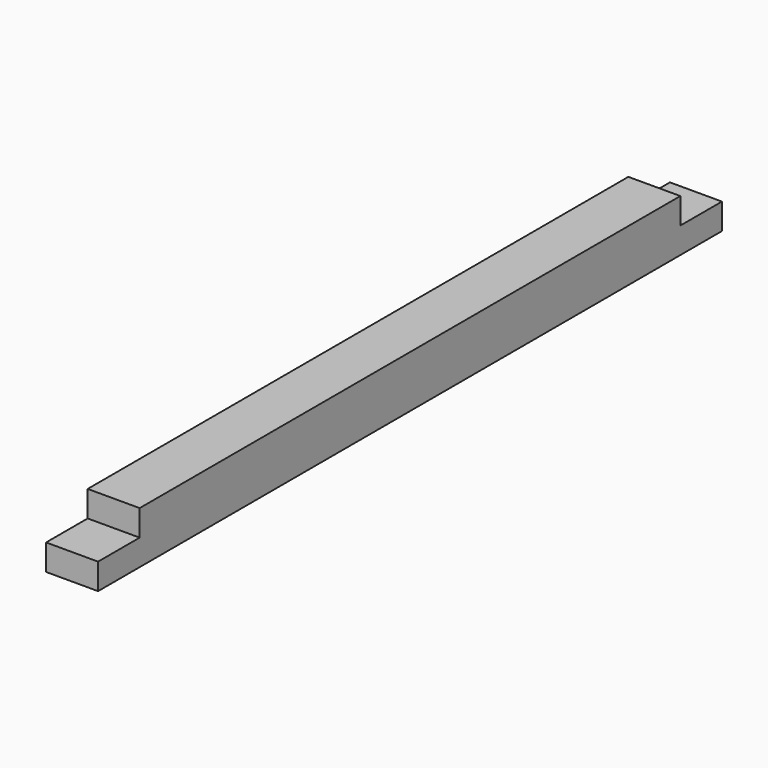
from build123d import *

# Parameters (mm, degrees)
F0_W     = 44.45
F0_H     = 44.45
F1_DEPTH = 666.75
F2_W     = 44.45
F2_H     = 44.45
F3_DEPTH = 22.225


with BuildPart() as f1:
    # F0 (on Front) → F1 (new body)
    with BuildSketch(Plane.XZ):
        with Locations((22.225, 22.225)):
            Rectangle(F0_W, F0_H)
    extrude(amount=F1_DEPTH)

    # F2 (on face) → F3 (cut)
    with BuildSketch(Plane.XY.offset(44.45)):
        with Locations((22.225, -644.525)):
            Rectangle(F2_W, F2_H)
        with Locations((22.225, -22.225)):
            Rectangle(F2_W, F2_H)
    extrude(amount=-F3_DEPTH, mode=Mode.SUBTRACT)


solid = f1.part
